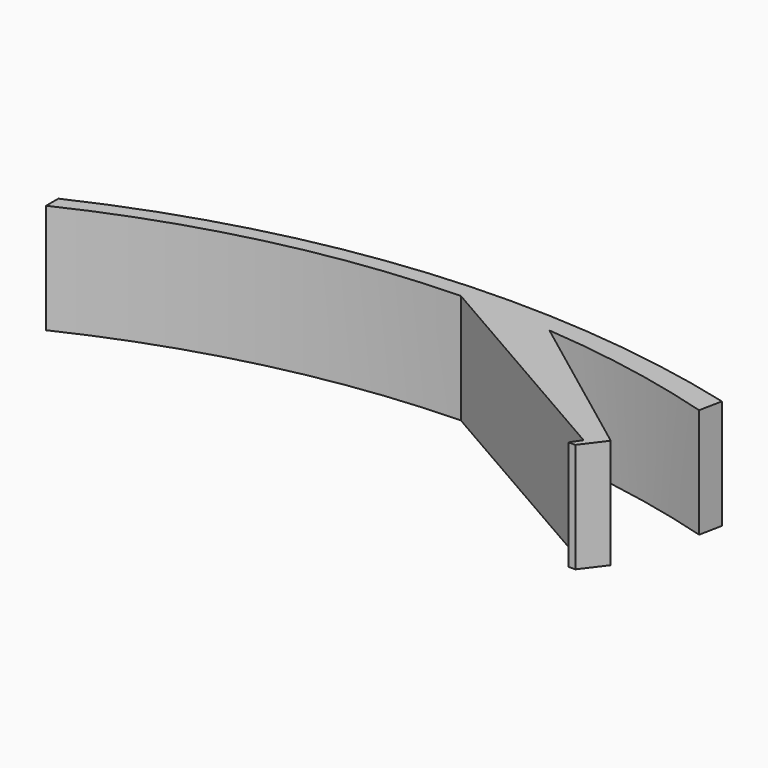
from build123d import *

# Parameters (mm, degrees)
F1_DEPTH = 25.4


with BuildPart() as f1:
    # F0 (on Top) → F1 (new body)
    with BuildSketch(Plane.XY):
        with BuildLine():
            Line((65.474816, 11.242891), (66.533029, 16.533958))
            ThreePointArc((66.533029, 16.533958), (-6.291544, 22.558526), (-76.854862, 3.570845))
            Line((-76.854862, 3.570845), (-76.854862, 0))
            ThreePointArc((-76.854862, 0), (-37.530606, 13.873301), (3.814843, 19.297274))
            ThreePointArc((3.814843, 19.297274), (14.3127, 19.29575), (24.796037, 18.743812))
            ThreePointArc((24.796037, 18.743812), (45.329719, 16.047034), (65.474816, 11.242891))
        make_face()
        with BuildLine():
            Line((60.448304, -8.069501), (24.796037, 18.743812))
            ThreePointArc((24.796037, 18.743812), (14.3127, 19.29575), (3.814843, 19.297274))
            Line((3.814843, 19.297274), (56.480005, -10.979586))
            Line((56.480005, -10.979586), (55.39638, -12.605024))
            Line((55.39638, -12.605024), (54.892685, -13.360566))
            Line((54.892685, -13.360566), (56.480005, -13.345941))
            Line((56.480005, -13.345941), (60.448304, -8.069501))
        make_face()
    extrude(amount=F1_DEPTH)


solid = f1.part
